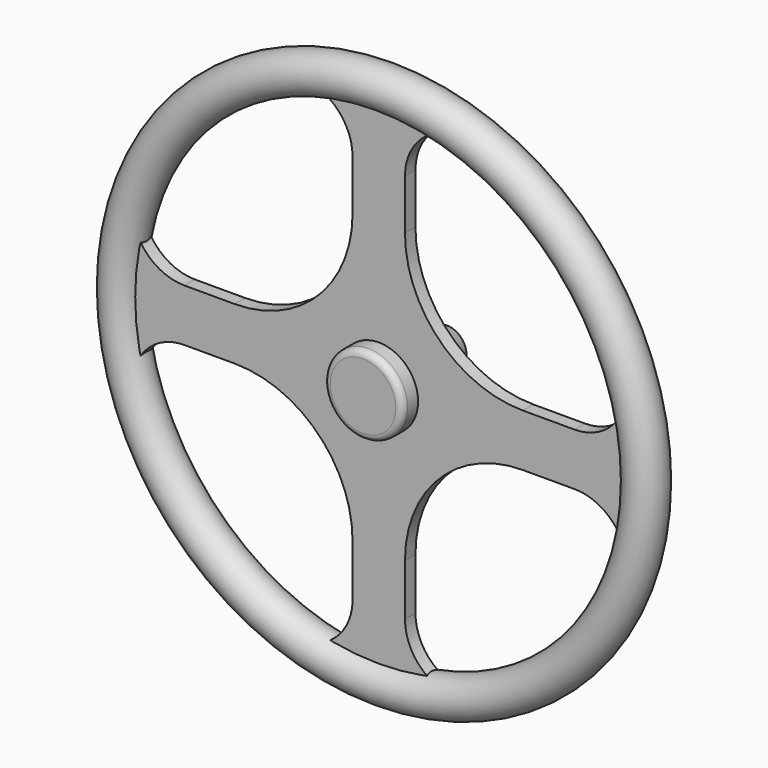
from build123d import *

# Parameters (mm, degrees)
F1_R          = 9.525
F0_R          = 19.05
F3_DEPTH      = 12.7
F3_DEPTH_BACK = 38.1
F4_SIZE2      = 9.525
F4_SIZE       = 25.4
F6_R          = 3.1623
F5_R          = 6.35
F7_DEPTH      = 47.625
F8_R          = 19.05
F9_DEPTH      = 3.175


with BuildPart() as f2:
    # F2: sweep along a path in F0
    with BuildLine(Plane.XZ) as f2_path:
        CenterArc((0, 0), 19.05, 0, 360)
    # F1 (on Right) → F2 (sweep)
    with BuildSketch(Plane.YZ):
        with Locations((0, 127)):
            Circle(F1_R)
    sweep(path=f2_path.line)


with BuildPart() as f3:
    # F0 (on Front) → F3 (new body, two sides)
    with BuildSketch(Plane.XZ) as f3_sk:
        Circle(F0_R)
    extrude(amount=F3_DEPTH)
    extrude(f3_sk.sketch, amount=-F3_DEPTH_BACK)

    # F4
    f4_edges = [f3.edges().sort_by_distance(p)[0] for p in [
        (-19.05, 38.1, 0),
    ]]
    chamfer(f4_edges, length=F4_SIZE, length2=F4_SIZE2)

    # F6
    f6_edges = [f3.edges().sort_by_distance(p)[0] for p in [
        (-19.05, -12.7, 0),
    ]]
    fillet(f6_edges, radius=F6_R)

    # F5 (on face) → F7 (cut)
    with BuildSketch(Plane(origin=(0, 38.1, 0), x_dir=(-1, 0, 0), z_dir=(0, 1, 0))):
        Circle(F5_R)
    extrude(amount=-F7_DEPTH, mode=Mode.SUBTRACT)


with BuildPart() as f9:
    # F8 (on Front) → F9 (new body, symmetric)
    with BuildSketch(Plane.XZ):
        with BuildLine():
            ThreePointArc((-12.7, 69.85), (-29.438847, 29.438847), (-69.85, 12.7))
            Line((-69.85, 12.7), (-94.185721, 12.7))
            ThreePointArc((-94.185721, 12.7), (-115.246288, 23.900968), (-117.732151, 47.625))
            ThreePointArc((-117.732151, 47.625), (-127, 0), (-117.732151, -47.625))
            ThreePointArc((-117.732151, -47.625), (-115.246288, -23.900968), (-94.185721, -12.7))
            Line((-94.185721, -12.7), (-69.85, -12.7))
            ThreePointArc((-69.85, -12.7), (-29.438847, -29.438847), (-12.7, -69.85))
            Line((-12.7, -69.85), (-12.7, -94.923691))
            ThreePointArc((-12.7, -94.923691), (-21.267077, -113.945066), (-41.189189, -120.135135))
            ThreePointArc((-41.189189, -120.135135), (0, -127), (41.189189, -120.135135))
            ThreePointArc((41.189189, -120.135135), (21.267077, -113.945066), (12.7, -94.923691))
            Line((12.7, -94.923691), (12.7, -69.85))
            ThreePointArc((12.7, -69.85), (29.438847, -29.438847), (69.85, -12.7))
            Line((69.85, -12.7), (94.923691, -12.7))
            ThreePointArc((94.923691, -12.7), (113.945066, -21.267077), (120.135135, -41.189189))
            ThreePointArc((120.135135, -41.189189), (127, 0), (120.135135, 41.189189))
            ThreePointArc((120.135135, 41.189189), (113.945066, 21.267077), (94.923691, 12.7))
            Line((94.923691, 12.7), (69.85, 12.7))
            ThreePointArc((69.85, 12.7), (29.438847, 29.438847), (12.7, 69.85))
            Line((12.7, 69.85), (12.7, 94.185721))
            ThreePointArc((12.7, 94.185721), (23.900968, 115.246288), (47.625, 117.732151))
            ThreePointArc((47.625, 117.732151), (17.987872, 125.719674), (-12.7, 126.363405))
            Line((-12.7, 126.363405), (-12.7, 94.185721))
            Line((-12.7, 94.185721), (-12.7, 69.85))
        make_face()
        Circle(F8_R, mode=Mode.SUBTRACT)
        with BuildLine():
            ThreePointArc((-47.625, 117.732151), (-23.900968, 115.246288), (-12.7, 94.185721))
            Line((-12.7, 94.185721), (-12.7, 126.363405))
            ThreePointArc((-12.7, 126.363405), (-30.469674, 123.290709), (-47.625, 117.732151))
        make_face()
    extrude(amount=F9_DEPTH, both=True)


solid = Compound([f2.part, f3.part, f9.part])
